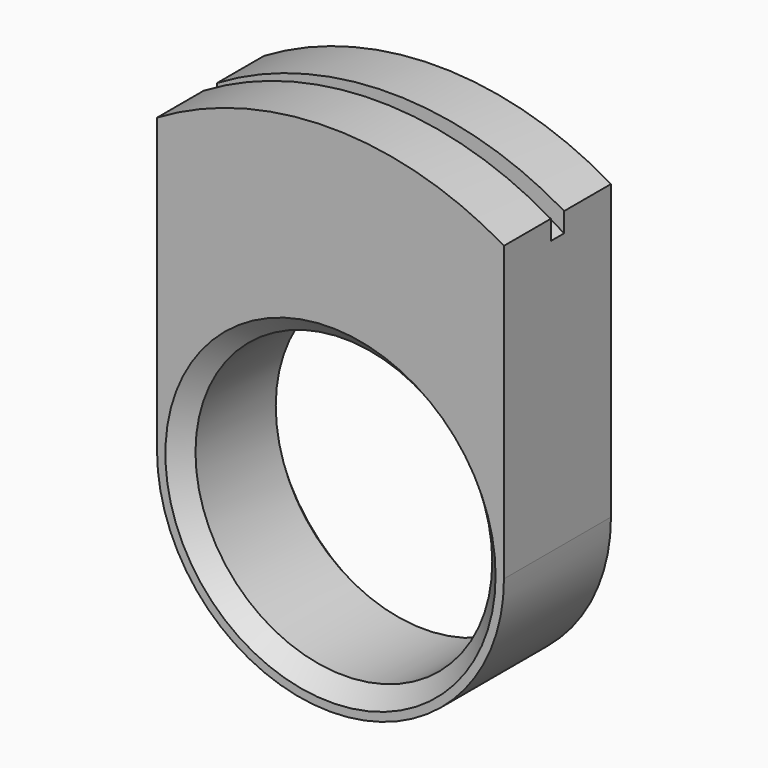
from build123d import *

# Parameters (mm, degrees)
F0_R          = 8.875
F1_DEPTH      = 4
F1_DEPTH_BACK = 4
F2_SIZE       = 1
F3_DEPTH      = 4
F3_DEPTH_BACK = 4
F4_DEPTH      = 0.5
F4_DEPTH_BACK = 0.5


with BuildPart() as f1:
    # F0 (on Front) → F1 (new body, two sides)
    with BuildSketch(Plane.XZ) as f1_sk:
        with BuildLine():
            ThreePointArc((-10.375, 0), (0, -10.375), (10.375, 0))
            ThreePointArc((10.375, 0), (0, 10.375), (-10.375, 0))
        make_face()
        Circle(F0_R, mode=Mode.SUBTRACT)
    extrude(amount=F1_DEPTH)
    extrude(f1_sk.sketch, amount=-F1_DEPTH_BACK)

    # F2
    f2_edges = [f1.edges().sort_by_distance(p)[0] for p in [
        (-8.875, -4, 0),
        (-8.875, 4, 0),
    ]]
    chamfer(f2_edges, length=F2_SIZE)

    # F0 (on Front) → F3 (join, two sides)
    with BuildSketch(Plane.XZ) as f3_sk:
        with BuildLine():
            ThreePointArc((-10.375, 0), (0, 10.375), (10.375, 0))
            Line((10.375, 0), (10.375, 16.363068172))
            ThreePointArc((10.375, 16.363068172), (0, 19.375), (-10.375, 16.363068172))
            Line((-10.375, 16.363068172), (-10.375, 0))
        make_face()
        with BuildLine():
            ThreePointArc((-10.375, 16.363068172), (0, 19.375), (10.375, 16.363068172))
            Line((10.375, 16.363068172), (10.375, 17.5356779168))
            ThreePointArc((10.375, 17.5356779168), (0, 20.375), (-10.375, 17.5356779168))
            Line((-10.375, 17.5356779168), (-10.375, 16.363068172))
        make_face()
    extrude(amount=F3_DEPTH)
    extrude(f3_sk.sketch, amount=-F3_DEPTH_BACK)

    # F0 (on Front) → F4 (cut, two sides)
    with BuildSketch(Plane.XZ) as f4_sk:
        with BuildLine():
            ThreePointArc((-10.375, 16.363068172), (0, 19.375), (10.375, 16.363068172))
            Line((10.375, 16.363068172), (10.375, 17.5356779168))
            ThreePointArc((10.375, 17.5356779168), (0, 20.375), (-10.375, 17.5356779168))
            Line((-10.375, 17.5356779168), (-10.375, 16.363068172))
        make_face()
    extrude(amount=-F4_DEPTH, mode=Mode.SUBTRACT)
    extrude(f4_sk.sketch, amount=F4_DEPTH_BACK, mode=Mode.SUBTRACT)


solid = f1.part
